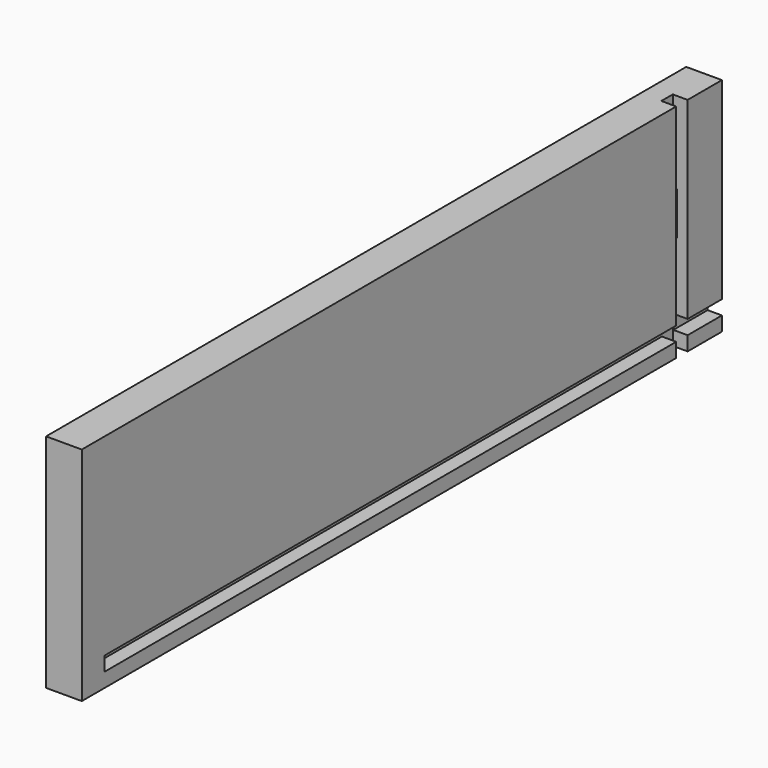
from build123d import *

# Parameters (mm, degrees)
F0_W     = 355.6
F0_H     = 98.425
F1_DEPTH = 15.875
F3_DEPTH = 11.1125
F4_W     = 342.9
F4_H     = 6.35
F5_DEPTH = 6.35
F6_W     = 6.604
F6_H     = 6.35
F7_DEPTH = 98.425


with BuildPart() as f1:
    # F0 (on Right) → F1 (new body)
    with BuildSketch(Plane.YZ):
        with Locations((190.32111, 49.2125)):
            Rectangle(F0_W, F0_H)
    extrude(amount=F1_DEPTH)

    # F2 (on face) → F3 (cut)
    with BuildSketch(Plane(origin=(0, 0, 0), x_dir=(0, -1, 0), z_dir=(-1, 0, 0))):
        with BuildLine():
            ThreePointArc((-41.09611, 42.8625), (-31.57111, 52.3875), (-41.09611, 61.9125))
            Line((-41.09611, 61.9125), (-368.12111, 61.9125))
            Line((-368.12111, 61.9125), (-368.12111, 52.3875))
            Line((-368.12111, 52.3875), (-368.12111, 42.8625))
            Line((-368.12111, 42.8625), (-41.09611, 42.8625))
        make_face()
    extrude(amount=-F3_DEPTH, mode=Mode.SUBTRACT)

    # F4 (on face) → F5 (cut)
    with BuildSketch(Plane.YZ.offset(15.875)):
        with Locations((196.67111, 9.525)):
            Rectangle(F4_W, F4_H)
    extrude(amount=-F5_DEPTH, mode=Mode.SUBTRACT)

    # F6 (on face) → F7 (cut, through all)
    with BuildSketch(Plane.XY.offset(98.425)):
        with Locations((12.573, 345.89611)):
            Rectangle(F6_W, F6_H)
    extrude(amount=-F7_DEPTH, mode=Mode.SUBTRACT)


solid = f1.part
